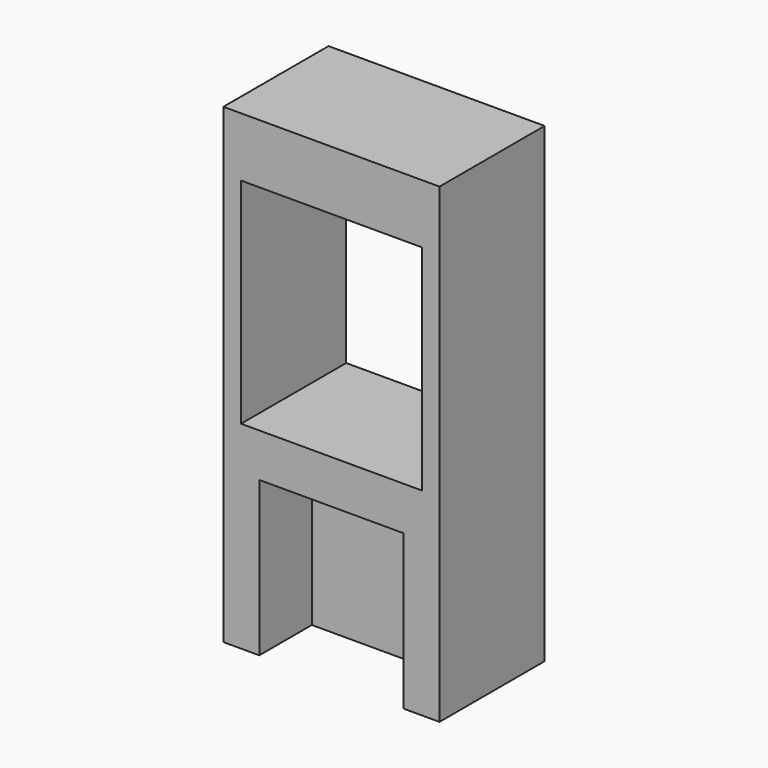
from build123d import *

# Parameters (mm, degrees)
F0_W          = 128.129378
F0_H          = 77.922702
F1_DEPTH      = 254
F1_DEPTH_BACK = 25.4
F2_W          = 85.559396
F2_H          = 132.324406
F3_DEPTH      = 254
F4_W          = 107.157492
F4_H          = 126.91684
F5_DEPTH      = 127


with BuildPart() as f1:
    # F0 (on Top) → F1 (new body, two sides)
    with BuildSketch(Plane.XY) as f1_sk:
        Rectangle(F0_W, F0_H)
    extrude(amount=F1_DEPTH)
    extrude(f1_sk.sketch, amount=-F1_DEPTH_BACK)

    # F2 (on Front) → F3 (cut)
    with BuildSketch(Plane.XZ):
        Rectangle(F2_W, F2_H)
    extrude(amount=F3_DEPTH, mode=Mode.SUBTRACT)

    # F4 (on Front) → F5 (cut, symmetric)
    with BuildSketch(Plane.XZ):
        with Locations((0, 155.446574)):
            Rectangle(F4_W, F4_H)
    extrude(amount=F5_DEPTH, both=True, mode=Mode.SUBTRACT)


solid = f1.part
